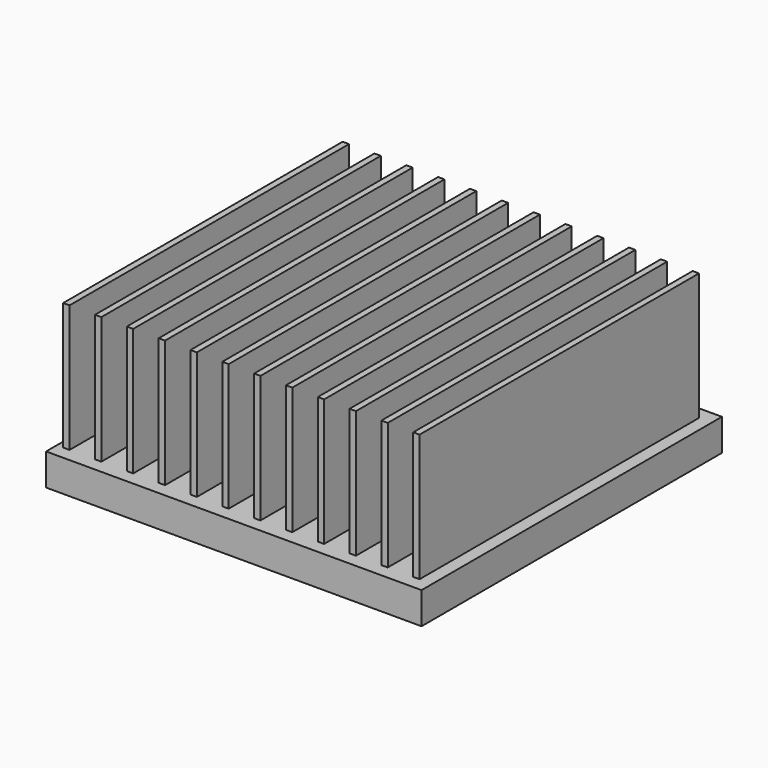
from build123d import *

# Parameters (mm, degrees)
F0_W     = 0.508
F0_H     = 27.8820712173
F1_DEPTH = 12.7
F0_W_2   = 29.972
F0_H_2   = 29.972
F2_DEPTH = 2.54


with BuildPart() as f1:
    # F0 (on Top) → F1 (new body)
    with BuildSketch(Plane.XY):
        with Locations((0.762, 15.0149643914)):
            Rectangle(F0_W, F0_H)
    extrude(amount=F1_DEPTH)



with BuildPart() as f1b:
    # F0 (on Top) → F1, piece 2 (new body)
    with BuildSketch(Plane.XY):
        with Locations((3.302, 15.0149643914)):
            Rectangle(F0_W, F0_H)
    extrude(amount=F1_DEPTH)


with BuildPart() as f1c:
    # F0 (on Top) → F1, piece 3 (new body)
    with BuildSketch(Plane.XY):
        with Locations((5.842, 15.0149643914)):
            Rectangle(F0_W, F0_H)
    extrude(amount=F1_DEPTH)


with BuildPart() as f1d:
    # F0 (on Top) → F1, piece 4 (new body)
    with BuildSketch(Plane.XY):
        with Locations((8.382, 15.0149643914)):
            Rectangle(F0_W, F0_H)
    extrude(amount=F1_DEPTH)


with BuildPart() as f1e:
    # F0 (on Top) → F1, piece 5 (new body)
    with BuildSketch(Plane.XY):
        with Locations((10.922, 15.0149643914)):
            Rectangle(F0_W, F0_H)
    extrude(amount=F1_DEPTH)


with BuildPart() as f1f:
    # F0 (on Top) → F1, piece 6 (new body)
    with BuildSketch(Plane.XY):
        with Locations((13.462, 15.0149643914)):
            Rectangle(F0_W, F0_H)
    extrude(amount=F1_DEPTH)


with BuildPart() as f1g:
    # F0 (on Top) → F1, piece 7 (new body)
    with BuildSketch(Plane.XY):
        with Locations((16.002, 15.0149643914)):
            Rectangle(F0_W, F0_H)
    extrude(amount=F1_DEPTH)


with BuildPart() as f1h:
    # F0 (on Top) → F1, piece 8 (new body)
    with BuildSketch(Plane.XY):
        with Locations((18.542, 15.0149643914)):
            Rectangle(F0_W, F0_H)
    extrude(amount=F1_DEPTH)


with BuildPart() as f1i:
    # F0 (on Top) → F1, piece 9 (new body)
    with BuildSketch(Plane.XY):
        with Locations((21.082, 15.0149643914)):
            Rectangle(F0_W, F0_H)
    extrude(amount=F1_DEPTH)


with BuildPart() as f1j:
    # F0 (on Top) → F1, piece 10 (new body)
    with BuildSketch(Plane.XY):
        with Locations((23.622, 15.0149643914)):
            Rectangle(F0_W, F0_H)
    extrude(amount=F1_DEPTH)


with BuildPart() as f1k:
    # F0 (on Top) → F1, piece 11 (new body)
    with BuildSketch(Plane.XY):
        with Locations((26.162, 15.0149643914)):
            Rectangle(F0_W, F0_H)
    extrude(amount=F1_DEPTH)


with BuildPart() as f1l:
    # F0 (on Top) → F1, piece 12 (new body)
    with BuildSketch(Plane.XY):
        with Locations((28.702, 15.0149643914)):
            Rectangle(F0_W, F0_H)
    extrude(amount=F1_DEPTH)


with BuildPart() as f1_1:
    add(f1.part)

    add(f1b.part)  # F2 merges F1b

    add(f1c.part)  # F2 merges F1c

    add(f1d.part)  # F2 merges F1d

    add(f1e.part)  # F2 merges F1e

    add(f1f.part)  # F2 merges F1f

    add(f1g.part)  # F2 merges F1g

    add(f1h.part)  # F2 merges F1h

    add(f1i.part)  # F2 merges F1i

    add(f1j.part)  # F2 merges F1j

    add(f1k.part)  # F2 merges F1k

    add(f1l.part)  # F2 merges F1l
    # F0 (on Top) → F2 (join)
    with BuildSketch(Plane.XY):
        with Locations((14.986, 14.986)):
            Rectangle(F0_W_2, F0_H_2)
        with Locations((0.762, 15.0149643914)):
            Rectangle(F0_W, F0_H, mode=Mode.SUBTRACT)
        with Locations((3.302, 15.0149643914)):
            Rectangle(F0_W, F0_H, mode=Mode.SUBTRACT)
        with Locations((5.842, 15.0149643914)):
            Rectangle(F0_W, F0_H, mode=Mode.SUBTRACT)
        with Locations((8.382, 15.0149643914)):
            Rectangle(F0_W, F0_H, mode=Mode.SUBTRACT)
        with Locations((10.922, 15.0149643914)):
            Rectangle(F0_W, F0_H, mode=Mode.SUBTRACT)
        with Locations((13.462, 15.0149643914)):
            Rectangle(F0_W, F0_H, mode=Mode.SUBTRACT)
        with Locations((16.002, 15.0149643914)):
            Rectangle(F0_W, F0_H, mode=Mode.SUBTRACT)
        with Locations((18.542, 15.0149643914)):
            Rectangle(F0_W, F0_H, mode=Mode.SUBTRACT)
        with Locations((21.082, 15.0149643914)):
            Rectangle(F0_W, F0_H, mode=Mode.SUBTRACT)
        with Locations((23.622, 15.0149643914)):
            Rectangle(F0_W, F0_H, mode=Mode.SUBTRACT)
        with Locations((26.162, 15.0149643914)):
            Rectangle(F0_W, F0_H, mode=Mode.SUBTRACT)
        with Locations((28.702, 15.0149643914)):
            Rectangle(F0_W, F0_H, mode=Mode.SUBTRACT)
    extrude(amount=F2_DEPTH)


solid = f1_1.part
